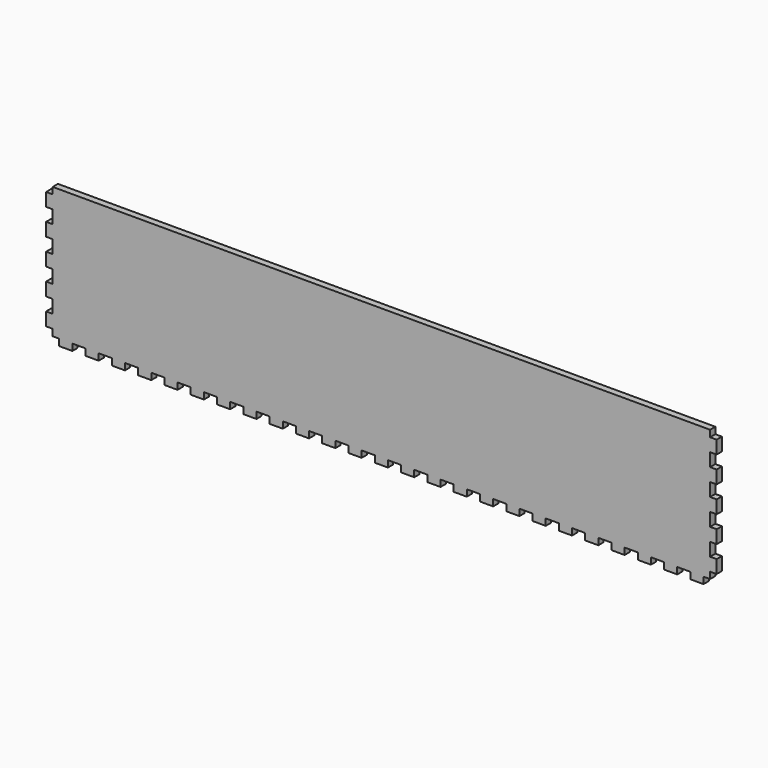
from build123d import *

# Parameters (mm, degrees)
SKETCH001_W             = 500
SKETCH001_H             = 100
PAD001_DEPTH            = 5
SKETCH022_W             = 10
SKETCH022_H             = 5
PAD020_DEPTH            = 5
LINEARPATTERN002_COUNT  = 25
LINEARPATTERN002_PITCH  = 20
SKETCH023_W             = 10
SKETCH023_H             = 5
PAD021_DEPTH            = 5
LINEARPATTERN003_COUNT  = 5
LINEARPATTERN003_PITCH  = 20
SKETCH024_W             = 10
SKETCH024_H             = 5
PAD022_DEPTH            = 5
LINEARPATTERN004_COUNT  = 5
LINEARPATTERN004_PITCH  = 20
BODY001_PLACEMENT_ANGLE = 90


with BuildPart() as part:
    # Sketch001 → Pad001 (new body)
    with BuildSketch(Plane.XY):
        Rectangle(SKETCH001_W, SKETCH001_H)
    extrude(amount=PAD001_DEPTH)

    # Sketch022 (on DatumPlane) → Pad020 (join)
    with BuildSketch(Plane.XZ.offset(50)):
        with Locations((-240, 2.5)):
            Rectangle(SKETCH022_W, SKETCH022_H)
    pad020 = extrude(amount=PAD020_DEPTH)

    # LinearPattern002: Pad020 ×25
    with Locations(*[(i * LINEARPATTERN002_PITCH, 0, 0) for i in range(1, LINEARPATTERN002_COUNT)]):
        add(pad020)

    # Sketch023 (on DatumPlane) → Pad021 (join)
    with BuildSketch(Plane.YZ.offset(250)):
        with Locations((-40, 2.5)):
            Rectangle(SKETCH023_W, SKETCH023_H)
    pad021 = extrude(amount=PAD021_DEPTH)

    # LinearPattern003: Pad021 ×5
    with Locations(*[(0, i * LINEARPATTERN003_PITCH, 0) for i in range(1, LINEARPATTERN003_COUNT)]):
        add(pad021)

    # Sketch024 (on DatumPlane) → Pad022 (join)
    with BuildSketch(Plane(origin=(-250, 0, 0), x_dir=(0, -1, 0), z_dir=(-1, 0, 0))):
        with Locations((-40, 2.5)):
            Rectangle(SKETCH024_W, SKETCH024_H)
    pad022 = extrude(amount=PAD022_DEPTH)

    # LinearPattern004: Pad022 ×5
    with Locations(*[(0, -i * LINEARPATTERN004_PITCH, 0) for i in range(1, LINEARPATTERN004_COUNT)]):
        add(pad022)


with BuildPart() as part_1:
    # Body001 placement: moved
    add(part.part.moved(Location((0, 150, 55))).rotate(Axis((0, 150, 55), (1, 0, 0)), BODY001_PLACEMENT_ANGLE))


solid = part_1.part
